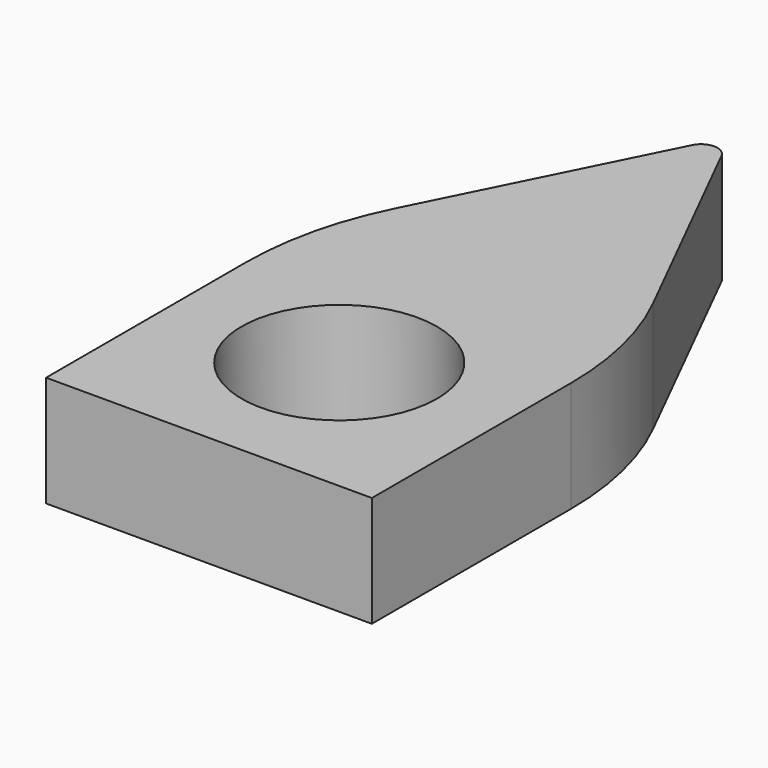
from build123d import *

# Parameters (mm, degrees)
F0_W     = 2540
F0_H     = 2540
F0_R     = 762
F1_DEPTH = 863.6
F2_R     = 2540
F3_T     = -127
F4_R     = 127


with BuildPart() as f1:
    # F0 (on Top) → F1 (new body)
    with BuildSketch(Plane.XY):
        Rectangle(F0_W, F0_H)
        Circle(F0_R, mode=Mode.SUBTRACT)
        Polygon((0, 3810), (-1270, 1270), (1270, 1270), align=None)
    extrude(amount=-F1_DEPTH)

    # F2
    f2_edges = [f1.edges().sort_by_distance(p)[0] for p in [
        (-1270, 1270, -431.8),
        (1270, 1270, -431.8),
    ]]
    fillet(f2_edges, radius=F2_R)

    # F3
    f3_openings = [f1.faces().sort_by_distance(p)[0] for p in [
        (0, 866.718284, -863.6),
    ]]
    offset(amount=F3_T, openings=f3_openings)

    # F4
    f4_edges = [f1.edges().sort_by_distance(p)[0] for p in [
        (0, 3810, -431.8),
    ]]
    fillet(f4_edges, radius=F4_R)


solid = f1.part
